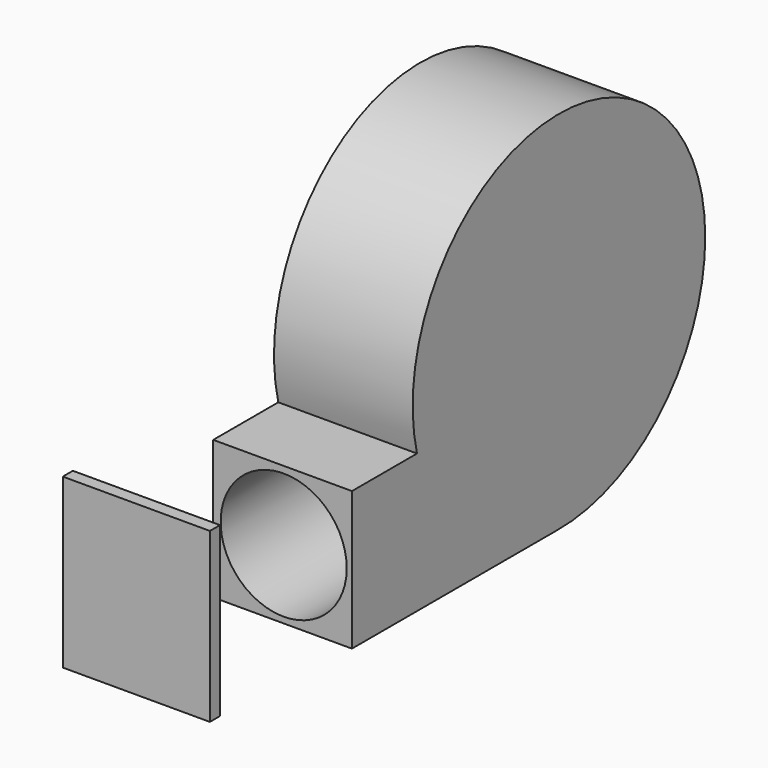
from build123d import *

# Parameters (mm, degrees)
F1_DEPTH = 33
F2_R     = 15
F3_DEPTH = 69.088
F4_W     = 3
F4_H     = 20
F5_DEPTH = 35


with BuildPart() as f1:
    # F0 (on Right) → F1 (new body)
    with BuildSketch(Plane.YZ):
        with BuildLine():
            Line((-0.5615277552, -10.4963755568), (-0.5615277552, -43.4963755568))
            ThreePointArc((-0.5615277552, -43.4963755568), (30.5599700806, -30.9570384351), (43.5, 0))
            ThreePointArc((43.5, 0), (-5.2873916524, 43.1774650659), (-42.2146431961, -10.4963755568))
            Line((-42.2146431961, -10.4963755568), (-0.5615277552, -10.4963755568))
        make_face()
        with BuildLine():
            Line((-61.5615277552, -43.4963755568), (-0.5615277552, -43.4963755568))
            ThreePointArc((-0.5615277552, -43.4963755568), (-27.0129635603, -34.0961845327), (-42.2146431961, -10.4963755568))
            Line((-42.2146431961, -10.4963755568), (-61.5615277552, -10.4963755568))
            Line((-61.5615277552, -10.4963755568), (-61.5615277552, -43.4963755568))
        make_face()
        with BuildLine():
            ThreePointArc((-42.2146431961, -10.4963755568), (-27.0129635603, -34.0961845327), (-0.5615277552, -43.4963755568))
            Line((-0.5615277552, -43.4963755568), (-0.5615277552, -10.4963755568))
            Line((-0.5615277552, -10.4963755568), (-42.2146431961, -10.4963755568))
        make_face()
    extrude(amount=F1_DEPTH)

    # F2 (on face) → F3 (cut)
    with BuildSketch(Plane.XZ.offset(61.5615277552)):
        with Locations((16.7601518333, -27.0830877125)):
            Circle(F2_R)
    extrude(amount=-F3_DEPTH, mode=Mode.SUBTRACT)


with BuildPart() as f5:
    # F4 (on Right) → F5 (new body)
    with BuildSketch(Plane.YZ):
        with Locations((-104.8103831157, -10)):
            Rectangle(F4_W, F4_H)
    extrude(amount=F5_DEPTH)

    # F6: F5 across face


with BuildPart() as f5_1:
    add(f5.part)
    add(f5.part.mirror(Plane(origin=(17.5, -104.8103831157, -20), x_dir=(1, 0, 0), z_dir=(0, 0, -1))))


solid = Compound([f1.part, f5_1.part])
